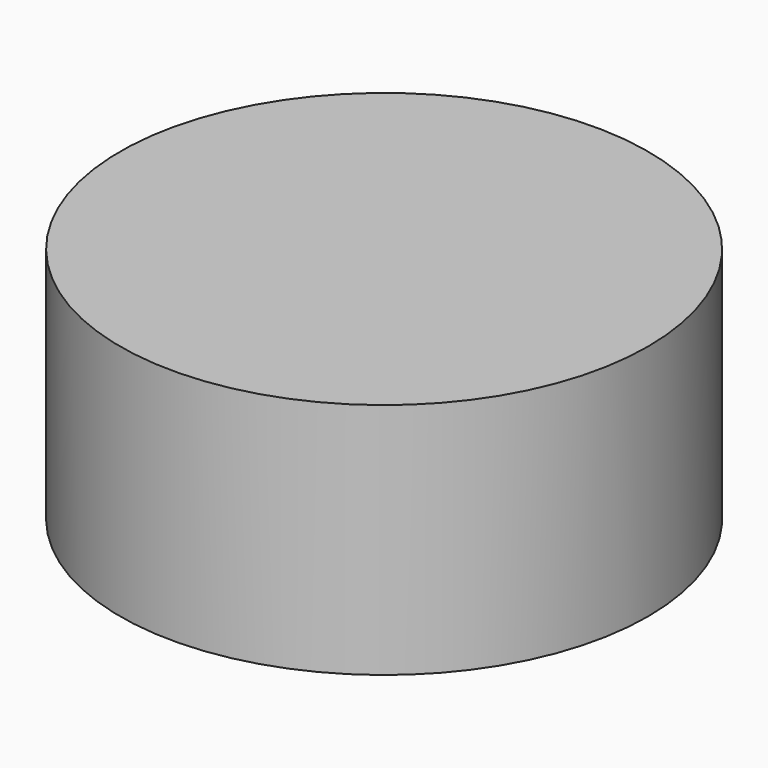
from build123d import *

# Parameters (mm, degrees)
CYLINDER_R     = 16.6624
CYLINDER_DEPTH = 15


with BuildPart() as part:
    # Cylinder → Cylinder (new body)
    with BuildSketch(Plane.XY.offset(-2.5)):
        Circle(CYLINDER_R)
    extrude(amount=CYLINDER_DEPTH)


solid = part.part
